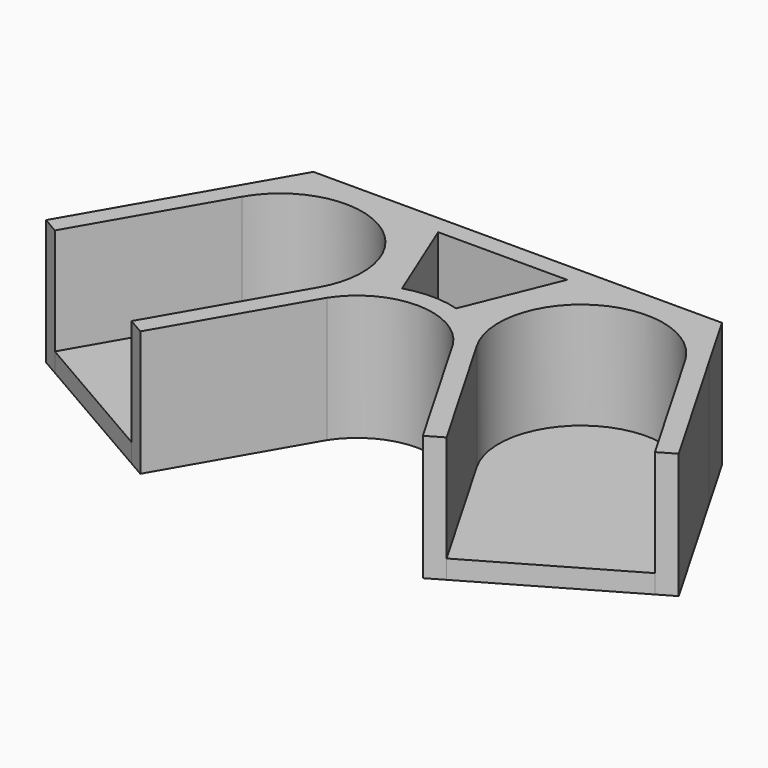
from build123d import *

# Parameters (mm, degrees)
F1_DEPTH = 1.2
F3_DEPTH = 8
F5_DEPTH = 6.8


with BuildPart() as f1:
    # F0 (on Top) → F1 (new body)
    with BuildSketch(Plane.XY):
        with BuildLine():
            Line((-19.146633, 10.592434), (-10.053367, 5.342434))
            Line((-10.053367, 5.342434), (-5.053367, 14.002688))
            ThreePointArc((-5.053367, 14.002688), (0, 16.767957), (5.053367, 14.002688))
            Line((5.053367, 14.002688), (10.053367, 5.342434))
            Line((10.053367, 5.342434), (19.146633, 10.592434))
            Line((19.146633, 10.592434), (14.146633, 19.252688))
            Line((14.146633, 19.252688), (12.342414, 22.377688))
            Line((12.342414, 22.377688), (-12.342414, 22.377688))
            Line((-12.342414, 22.377688), (-14.146633, 19.252688))
            Line((-14.146633, 19.252688), (-19.146633, 10.592434))
        make_face()
    extrude(amount=F1_DEPTH)

    # F2 (on face) → F3 (join)
    with BuildSketch(Plane.XY):
        with BuildLine():
            Line((-5.053367, 14.002688), (-10.053367, 5.342434))
            Line((-10.053367, 5.342434), (-9.014136, 4.742434))
            Line((-9.014136, 4.742434), (-4.024356, 13.384986))
            ThreePointArc((-4.024356, 13.384986), (0, 15.568776), (4.024356, 13.384986))
            Line((4.024356, 13.384986), (9.014136, 4.742434))
            Line((9.014136, 4.742434), (10.053367, 5.342434))
            Line((10.053367, 5.342434), (5.053367, 14.002688))
            ThreePointArc((5.053367, 14.002688), (0, 16.767957), (-5.053367, 14.002688))
        make_face()
        Polygon((-19.146633, 10.592434), (-14.146633, 19.252688), (-12.342414, 22.377688), (12.342414, 22.377688), (14.146633, 19.252688), (19.146633, 10.592434), (20.185864, 11.192434), (15.185864, 19.852688), (13.035234, 23.577688), (-13.035234, 23.577688), (-15.185864, 19.852688), (-20.185864, 11.192434), align=None)
    extrude(amount=F3_DEPTH)

    # F4 (on face) → F5 (join, through all)
    with BuildSketch(Plane.XY.offset(1.2)):
        with BuildLine():
            Line((-4.113592, 22.377688), (-12.342414, 22.377688))
            Line((-12.342414, 22.377688), (-14.146633, 19.252688))
            ThreePointArc((-14.146633, 19.252688), (-6.975, 21.174321), (-5.053367, 14.002688))
            ThreePointArc((-5.053367, 14.002688), (-3.614694, 15.556901), (-1.725656, 16.514443))
            Line((-1.725656, 16.514443), (-4.113592, 22.377688))
        make_face()
        with BuildLine():
            ThreePointArc((1.725656, 16.514443), (3.614694, 15.556901), (5.053367, 14.002688))
            ThreePointArc((5.053367, 14.002688), (6.975, 21.174321), (14.146633, 19.252688))
            Line((14.146633, 19.252688), (12.342414, 22.377688))
            Line((12.342414, 22.377688), (4.113592, 22.377688))
            Line((4.113592, 22.377688), (1.725656, 16.514443))
        make_face()
    extrude(amount=F5_DEPTH)


solid = f1.part
